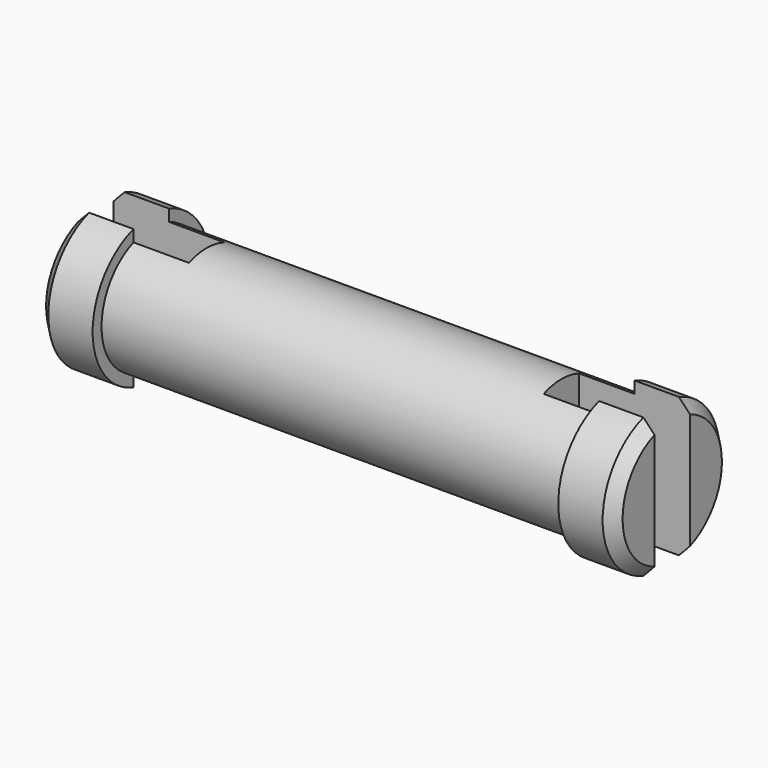
from build123d import *

# Parameters (mm, degrees)
F2_W     = 6.671602
F2_H     = 2
F2_W_2   = 14.827402
F3_DEPTH = 12.5


with BuildPart() as f1:
    # F0 (on Front) → F1 (revolve)
    with BuildSketch(Plane.XZ):
        Polygon((-7.055335, 2.8), (-7.055335, 0), (18.944665, 0), (18.944665, 2.8), (18.444665, 3.3), (16.444665, 3.3), (16.444665, 2.8), (-4.555335, 2.8), (-4.555335, 3.3), (-6.555335, 3.3), align=None)
    revolve(axis=Axis((5.944665, 0, 0), (1, 0, 0)))

    # F2 (on Top) → F3 (cut, symmetric)
    with BuildSketch(Plane.XY):
        with Locations((-5.391136, 0)):
            Rectangle(F2_W, F2_H)
        with Locations((21.358366, 0)):
            Rectangle(F2_W_2, F2_H)
    extrude(amount=F3_DEPTH, both=True, mode=Mode.SUBTRACT)


solid = f1.part
